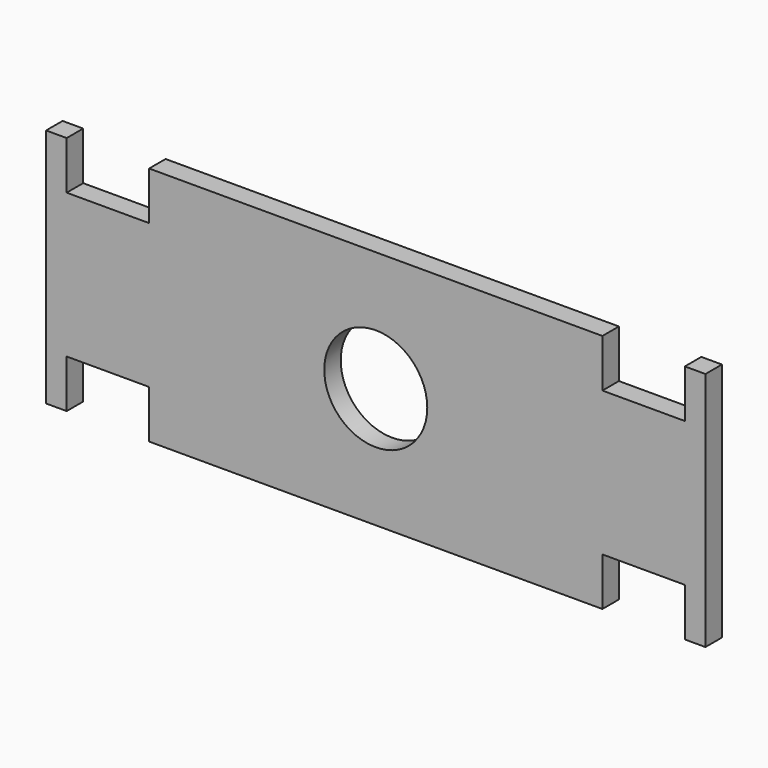
from build123d import *

# Parameters (mm, degrees)
F0_R     = 9.525
F1_DEPTH = 3.81


with BuildPart() as f1:
    # F0 (on Front) → F1 (new body)
    with BuildSketch(Plane.XZ):
        Polygon((57.15, -22.225), (60.96, -22.225), (60.96, 22.225), (57.15, 22.225), (57.15, 13.335), (41.91, 13.335), (41.91, 22.225), (-41.91, 22.225), (-41.91, 13.335), (-57.15, 13.335), (-57.15, 22.225), (-60.96, 22.225), (-60.96, -22.225), (-57.15, -22.225), (-57.15, -13.335), (-41.91, -13.335), (-41.91, -22.225), (41.91, -22.225), (41.91, -13.335), (57.15, -13.335), align=None)
        Circle(F0_R, mode=Mode.SUBTRACT)
    extrude(amount=F1_DEPTH)


solid = f1.part
